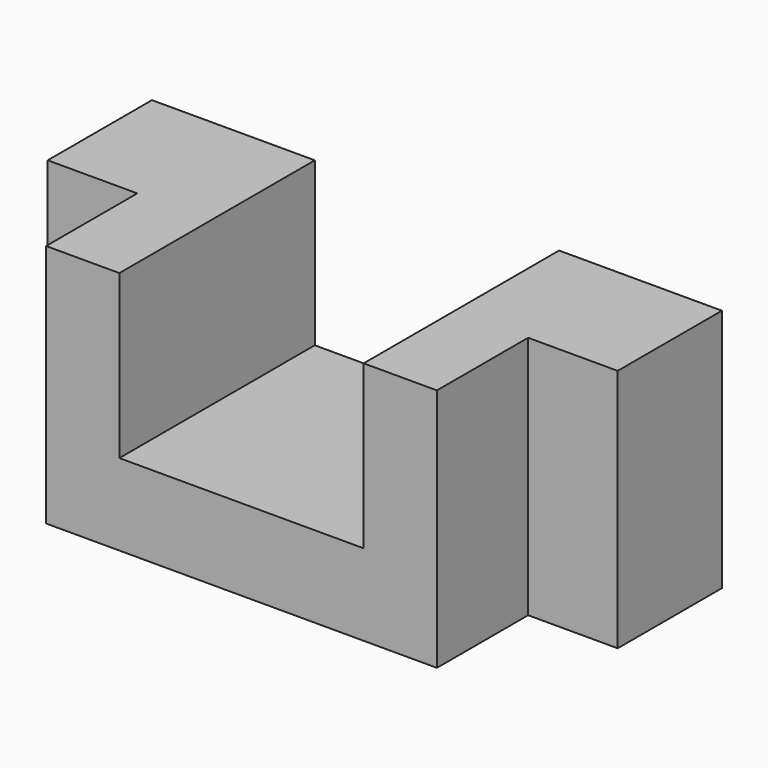
from build123d import *

# Parameters (mm, degrees)
F0_W     = 70
F0_H     = 30
F1_DEPTH = 30
F2_W     = 30
F2_H     = 30
F3_DEPTH = 20
F4_DEPTH = 20
F5_W     = 11
F5_H     = 14
F6_DEPTH = 30
F7_W     = 11
F7_H     = 14
F8_DEPTH = 30


with BuildPart() as f1:
    # F0 (on Front) → F1 (new body)
    with BuildSketch(Plane.XZ):
        Rectangle(F0_W, F0_H)
    extrude(amount=F1_DEPTH)

    # F2 (on face) → F3 (cut)
    with BuildSketch(Plane.XY.offset(15)):
        with Locations((0, -15)):
            Rectangle(F2_W, F2_H)
    extrude(amount=-F3_DEPTH, mode=Mode.SUBTRACT)

    # F2 (on face) → F4 (cut)
    with BuildSketch(Plane.XY.offset(15)):
        with Locations((0, -15)):
            Rectangle(F2_W, F2_H)
    extrude(amount=-F4_DEPTH, mode=Mode.SUBTRACT)

    # F5 (on face) → F6 (cut)
    with BuildSketch(Plane.XY.offset(15)):
        with Locations((29.5, -23)):
            Rectangle(F5_W, F5_H)
    extrude(amount=-F6_DEPTH, mode=Mode.SUBTRACT)

    # F7 (on face) → F8 (cut)
    with BuildSketch(Plane.XY.offset(15)):
        with Locations((-29.5, -23)):
            Rectangle(F7_W, F7_H)
    extrude(amount=-F8_DEPTH, mode=Mode.SUBTRACT)


solid = f1.part
